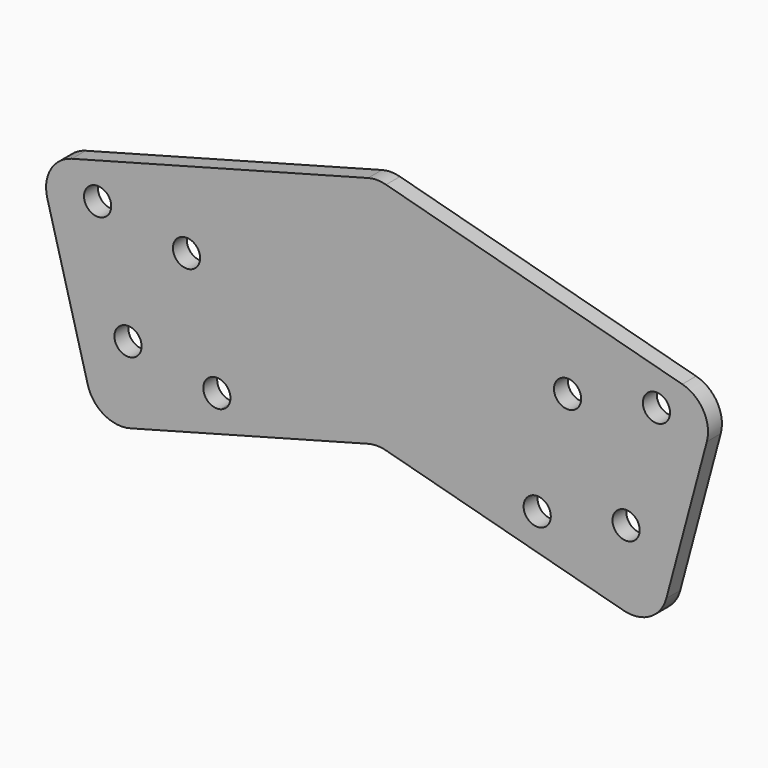
from build123d import *

# Parameters (mm, degrees)
F0_R     = 4.9657
F1_DEPTH = 3.175
F2_R     = 12.7


with BuildPart() as f1:
    # F0 (on Front) → F1 (new body, symmetric)
    with BuildSketch(Plane.XZ):
        Polygon((-55.2147151877, -14.7947383449), (0, 0), (0, 85.4620486929), (-123.7423807387, 52.3053777044), (-102.3768685655, -27.4317992558), align=None)
        with BuildLine():
            ThreePointArc((-53.5360170605, -2.527480351), (-54.5621623786, -5.550406979), (-57.2164993282, -7.3239782266))
            ThreePointArc((-57.2164993282, -7.3239782266), (-63.2982149361, -3.8126980833), (-59.7869347928, 2.2690175246))
            ThreePointArc((-59.7869347928, 2.2690175246), (-55.4787904325, 1.4120743309), (-53.5360170605, -2.527480351))
        make_face(mode=Mode.SUBTRACT)
        with Locations((-90.9608605544, 3.5666267904)):
            Circle(F0_R, mode=Mode.SUBTRACT)
        with BuildLine():
            ThreePointArc((-64.6296483812, 38.8745153783), (-65.6557936993, 35.8515887503), (-68.310130649, 34.0780175027))
            ThreePointArc((-68.310130649, 34.0780175027), (-73.5349030631, 41.8974420064), (-64.6296483812, 38.8745153783))
        make_face(mode=Mode.SUBTRACT)
        with Locations((-102.0544918751, 44.9686225197)):
            Circle(F0_R, mode=Mode.SUBTRACT)
        Polygon((0, 85.4620486929), (0, 0), (102.3768685655, -27.4317992558), (123.7423807387, 52.3053777044), align=None)
        with Locations((58.5017170605, -2.527480351)):
            Circle(F0_R, mode=Mode.SUBTRACT)
        with Locations((90.9608605544, 3.5666267904)):
            Circle(F0_R, mode=Mode.SUBTRACT)
        with Locations((69.5953483812, 38.8745153783)):
            Circle(F0_R, mode=Mode.SUBTRACT)
        with Locations((102.0544918751, 44.9686225197)):
            Circle(F0_R, mode=Mode.SUBTRACT)
    extrude(amount=F1_DEPTH, both=True)

    # F2
    f2_edges = [f1.edges().sort_by_distance(p)[0] for p in [
        (-123.742381, 0, 52.305378),
        (0, 0, 85.462049),
        (0, 0, 0),
        (102.376869, 0, -27.431799),
        (123.742381, 0, 52.305378),
        (-102.376869, 0, -27.431799),
    ]]
    fillet(f2_edges, radius=F2_R)


solid = f1.part
